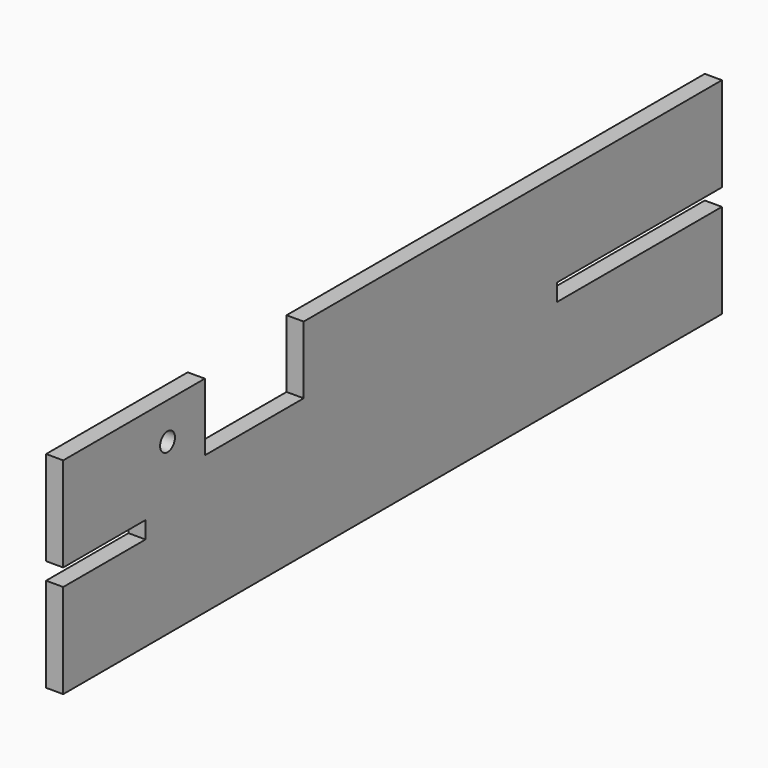
from build123d import *

# Parameters (mm, degrees)
F0_R     = 1.7145
F1_DEPTH = 3.175


with BuildPart() as f1:
    # F0 (on Right) → F1 (new body)
    with BuildSketch(Plane.YZ):
        Polygon((-41.809275, 11.41993), (-74.575491, 11.41993), (-74.575491, -6.04257), (-55.525491, -6.04257), (-55.525491, -7.63007), (39.724509, -7.63007), (39.724509, -6.04257), (58.774509, -6.04257), (77.824509, -6.04257), (77.824509, 11.41993), (-18.942443, 11.41993), (-18.942443, -1.08007), (-41.809275, -1.08007), align=None)
        with Locations((-50.445491, 4.655921)):
            Circle(F0_R, mode=Mode.SUBTRACT)
        Polygon((-55.525491, -9.21757), (-74.575491, -9.21757), (-74.575491, -26.68007), (1.624509, -26.68007), (77.824509, -26.68007), (77.824509, -9.21757), (58.774509, -9.21757), (39.724509, -9.21757), (39.724509, -7.660097), (39.724509, -7.63007), (-55.525491, -7.63007), align=None)
    extrude(amount=F1_DEPTH)


solid = f1.part
